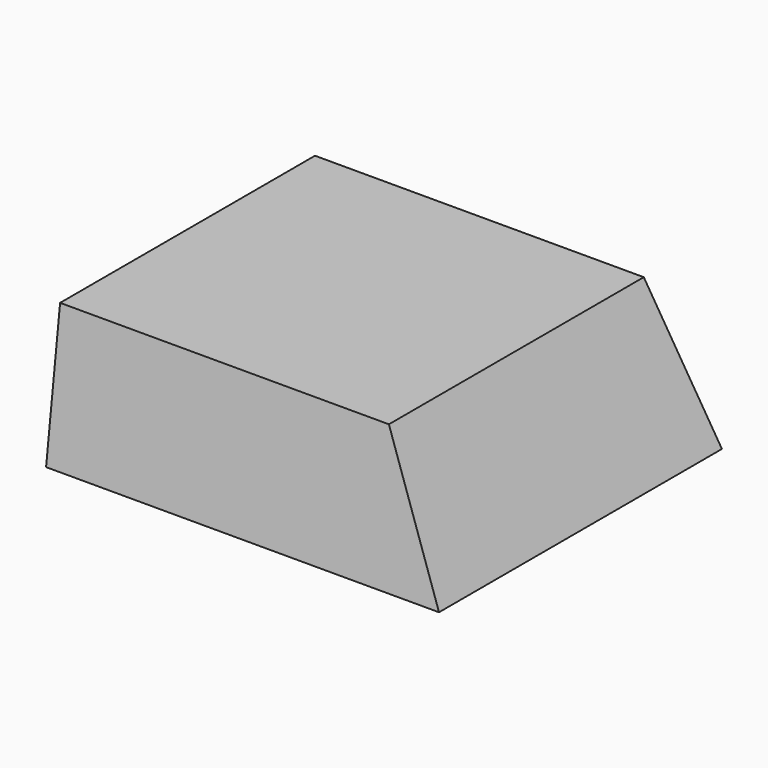
from build123d import *

# Parameters (mm, degrees)
F0_W          = 114.3
F0_H          = 44.45
F1_DEPTH      = 127
F3_DEPTH      = 127
F7_DEPTH      = 139.954
F7_DEPTH_BACK = 86.614


with BuildPart() as f1:
    # F0 (on Right) → F1 (new body)
    with BuildSketch(Plane.YZ):
        with Locations((-12.579812, -6.85063)):
            Rectangle(F0_W, F0_H)
    extrude(amount=F1_DEPTH)

    # F2 (on Front) → F3 (cut, symmetric)
    with BuildSketch(Plane.XZ):
        Polygon((127, -29.07563), (127, 15.37437), (106.272625, 15.37437), align=None)
    extrude(amount=F3_DEPTH, both=True, mode=Mode.SUBTRACT)

    # F6 (on offset) → F7 (cut, two sides)
    with BuildSketch(Plane.YZ.offset(25.4)) as f7_sk:
        Polygon((-69.729812, 15.37437), (-69.729812, -29.07563), (-64.067963, 15.37437), align=None)
        Polygon((38.908338, 15.37437), (44.570188, -29.07563), (44.570188, 15.37437), align=None)
    extrude(amount=F7_DEPTH, mode=Mode.SUBTRACT)
    extrude(f7_sk.sketch, amount=-F7_DEPTH_BACK, mode=Mode.SUBTRACT)


solid = f1.part
